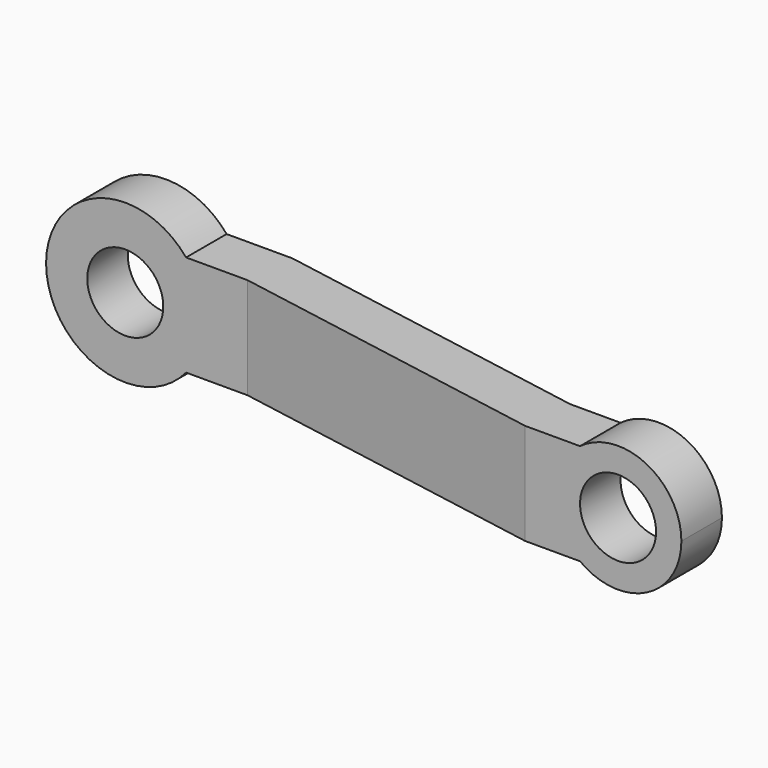
from build123d import *

# Parameters (mm, degrees)
F0_R     = 6
F1_DEPTH = 25
F3_DEPTH = 12.5


with BuildPart() as f1:
    # F0 (on Front) → F1 (new body)
    with BuildSketch(Plane.XZ):
        with BuildLine():
            ThreePointArc((9.604686, -8), (11.753905, -4.253905), (12.5, 0))
            ThreePointArc((12.5, 0), (11.753905, 4.253905), (9.604686, 8))
            ThreePointArc((9.604686, 8), (-12.5, 0), (9.604686, -8))
        make_face()
        Circle(F0_R, mode=Mode.SUBTRACT)
        with BuildLine():
            ThreePointArc((95, 0), (89.472136, 8.944272), (79, 8))
            ThreePointArc((79, 8), (75, 0), (79, -8))
            ThreePointArc((79, -8), (89.472136, -8.944272), (95, 0))
        make_face()
        with Locations((85, 0)):
            Circle(F0_R, mode=Mode.SUBTRACT)
        with BuildLine():
            ThreePointArc((9.604686, 8), (11.753905, 4.253905), (12.5, 0))
            ThreePointArc((12.5, 0), (11.753905, -4.253905), (9.604686, -8))
            Line((9.604686, -8), (79, -8))
            ThreePointArc((79, -8), (75, 0), (79, 8))
            Line((79, 8), (9.604686, 8))
        make_face()
    extrude(amount=F1_DEPTH)

    # F2 (on Top) → F3 (intersect, symmetric)
    with BuildSketch(Plane.XY):
        Polygon((20, 0), (-12.5, 0), (-12.5, -8), (19.300091, -8), (70.341627, -17), (95, -17), (95, -9), (71.041536, -9), align=None)
    extrude(amount=F3_DEPTH, both=True, mode=Mode.INTERSECT)


solid = f1.part
